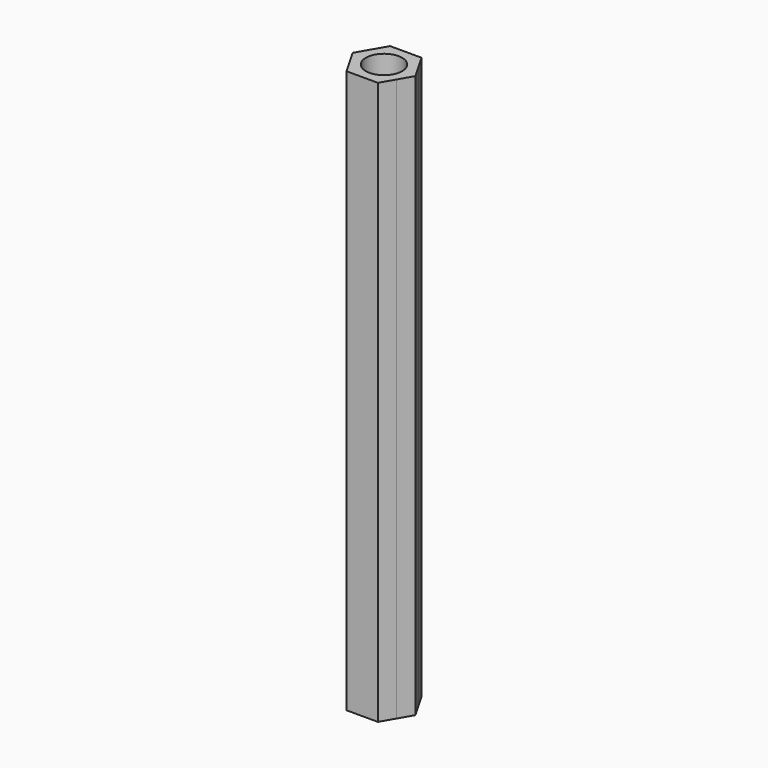
from build123d import *

# Parameters (mm, degrees)
F0_R     = 2
F1_DEPTH = 62


with BuildPart() as f1:
    # F0 (on Top) → F1 (new body)
    with BuildSketch(Plane.XY):
        with BuildLine():
            ThreePointArc((2.5980762129, -1.4999999973), (2.8977774793, -0.7764571338), (3, 0))
            ThreePointArc((3, 0), (2.8977774854, 0.776457111), (2.5980762365, 1.4999999564))
            ThreePointArc((2.5980762365, 1.4999999564), (1.5000000218, 2.5980761988), (0, 3))
            ThreePointArc((0, 3), (-1.5000000218, 2.5980761988), (-2.5980762365, 1.4999999564))
            ThreePointArc((-2.5980762365, 1.4999999564), (-3, -6.18e-08), (-2.5980761747, -1.5000000635))
            ThreePointArc((-2.5980761747, -1.5000000635), (-1.4999999683, -2.5980762297), (0, -3))
            ThreePointArc((0, -3), (1.5000000014, -2.5980762106), (2.5980762129, -1.4999999973))
        make_face()
        Circle(F0_R, mode=Mode.SUBTRACT)
        with BuildLine():
            ThreePointArc((2.5980762365, 1.4999999564), (2.8977774854, 0.776457111), (3, 0))
            ThreePointArc((3, 0), (2.8977774793, -0.7764571338), (2.5980762129, -1.4999999973))
            Line((2.5980762129, -1.4999999973), (3.4641016151, 0))
            Line((3.4641016151, 0), (2.5980762365, 1.4999999564))
        make_face()
        with BuildLine():
            ThreePointArc((0, 3), (1.5000000218, 2.5980761988), (2.5980762365, 1.4999999564))
            Line((2.5980762365, 1.4999999564), (1.7320508076, 3))
            Line((1.7320508076, 3), (0, 3))
        make_face()
        with BuildLine():
            Line((1.7320508076, -3), (2.5980762129, -1.4999999973))
            ThreePointArc((2.5980762129, -1.4999999973), (1.5000000014, -2.5980762106), (0, -3))
            Line((0, -3), (1.7320508076, -3))
        make_face()
        with BuildLine():
            ThreePointArc((-2.5980762365, 1.4999999564), (-1.5000000218, 2.5980761988), (0, 3))
            Line((0, 3), (-1.7320508076, 3))
            Line((-1.7320508076, 3), (-2.5980762365, 1.4999999564))
        make_face()
        with BuildLine():
            Line((-1.7320508076, -3), (0, -3))
            ThreePointArc((0, -3), (-1.4999999683, -2.5980762297), (-2.5980761747, -1.5000000635))
            Line((-2.5980761747, -1.5000000635), (-1.7320508076, -3))
        make_face()
        with BuildLine():
            ThreePointArc((-2.5980761747, -1.5000000635), (-3, -6.18e-08), (-2.5980762365, 1.4999999564))
            Line((-2.5980762365, 1.4999999564), (-3.4641016151, 0))
            Line((-3.4641016151, 0), (-2.5980761747, -1.5000000635))
        make_face()
    extrude(amount=F1_DEPTH)


solid = f1.part
